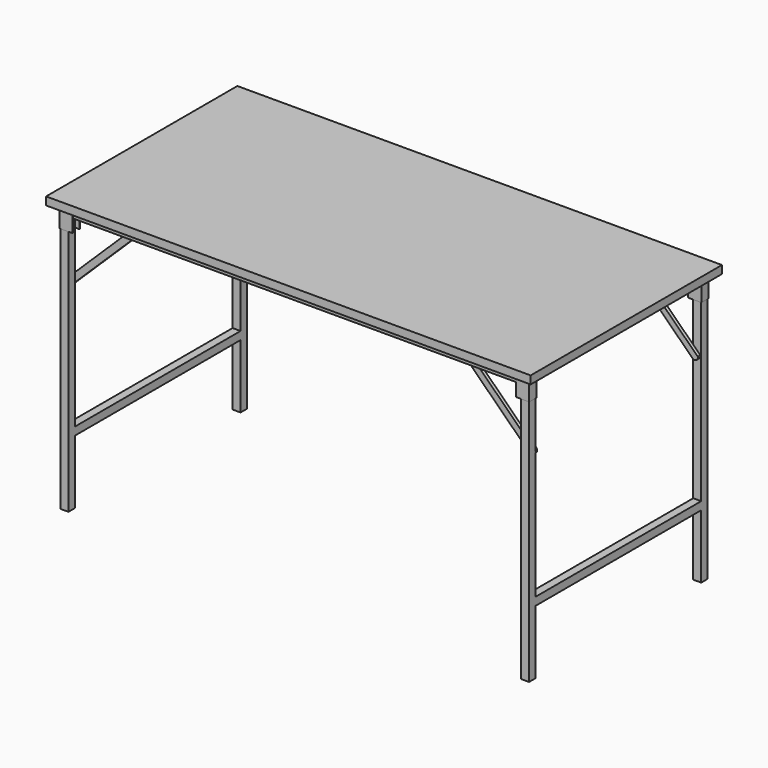
from build123d import *

# Parameters (mm, degrees)
F0_W      = 1520
F0_H      = 750
F1_DEPTH  = 25
F2_W      = 1470
F2_H      = 25
F3_DEPTH  = 25
F5_DEPTH  = 65
F7_W      = 25
F7_H      = 25
F8_DEPTH  = 805
F10_DEPTH = 65
F12_W     = 25
F12_H     = 25
F13_DEPTH = 805
F15_W     = 25
F15_H     = 25
F16_DEPTH = 805
F18_W     = 25
F18_H     = 25
F19_DEPTH = 650
F21_W     = 25
F21_H     = 25
F22_DEPTH = 650
F24_DEPTH = 10
F26_DEPTH = 10
F29_DEPTH = 10
F31_DEPTH = 10


with BuildPart() as f1:
    # F0 (on Top) → F1 (new body)
    with BuildSketch(Plane.XY):
        with Locations((-760, 375)):
            Rectangle(F0_W, F0_H)
    extrude(amount=F1_DEPTH)

    # F2 (on face) → F3 (join)
    with BuildSketch(Plane(origin=(0, 0, 0), x_dir=(1, 0, 0), z_dir=(0, 0, -1))):
        with Locations((-760, -37.5)):
            Rectangle(F2_W, F2_H)
        with Locations((-760, -712.5)):
            Rectangle(F2_W, F2_H)
    extrude(amount=F3_DEPTH)

    # F4 (on face) → F5 (join)
    with BuildSketch(Plane(origin=(0, 0, 0), x_dir=(1, 0, 0), z_dir=(0, 0, -1))):
        Polygon((-65, -25), (-25, -25), (-25, -50), (-65, -50), (-65, -52), (-23, -52), (-23, -23), (-65, -23), align=None)
    extrude(amount=F5_DEPTH)

    # F7 (on offset) → F8 (join)
    with BuildSketch(Plane(origin=(0, 0, -35), x_dir=(1, 0, 0), z_dir=(0, 0, -1))):
        with Locations((-37.5, -37.523640207)):
            Rectangle(F7_W, F7_H)
    extrude(amount=F8_DEPTH)

    # F9 (on face) → F10 (join)
    with BuildSketch(Plane.XY):
        Polygon((-1495, 724.9829173088), (-1455, 724.9829173088), (-1455, 726.9829173088), (-1497, 726.9829173088), (-1497, 697.9829173088), (-1455, 697.9829173088), (-1455, 699.9829173088), (-1495, 699.9829173088), align=None)
        Polygon((-65.0490959734, 726.9829173088), (-65.0490959734, 724.9829173088), (-25.0490959734, 724.9829173088), (-25.0490959734, 699.9829173088), (-65.0490959734, 699.9829173088), (-65.0490959734, 697.9829173088), (-23.0490959734, 697.9829173088), (-23.0490959734, 726.9829173088), align=None)
        Polygon((-1455, 25), (-1495, 25), (-1495, 50), (-1455, 50), (-1455, 52), (-1497, 52), (-1497, 23), (-1455, 23), align=None)
    extrude(amount=-F10_DEPTH)

    # F12 (on offset) → F13 (join)
    with BuildSketch(Plane(origin=(0, 0, -35), x_dir=(1, 0, 0), z_dir=(0, 0, -1))):
        with Locations((-1482.5, -37.5)):
            Rectangle(F12_W, F12_H)
    extrude(amount=F13_DEPTH)

    # F15 (on offset) → F16 (join)
    with BuildSketch(Plane(origin=(0, 0, -35), x_dir=(1, 0, 0), z_dir=(0, 0, -1))):
        with Locations((-37.5, -712.5)):
            Rectangle(F15_W, F15_H)
        with Locations((-1482.5, -712.5)):
            Rectangle(F15_W, F15_H)
    extrude(amount=F16_DEPTH)

    # F18 (on offset) → F19 (join)
    with BuildSketch(Plane(origin=(0, 50.023640207, 0), x_dir=(-1, 0, 0), z_dir=(0, 1, 0))):
        with Locations((37.5, -627.5)):
            Rectangle(F18_W, F18_H)
    extrude(amount=F19_DEPTH)

    # F21 (on offset) → F22 (join)
    with BuildSketch(Plane(origin=(0, 50, 0), x_dir=(-1, 0, 0), z_dir=(0, 1, 0))):
        with Locations((1482.5, -627.5)):
            Rectangle(F21_W, F21_H)
    extrude(amount=F22_DEPTH)

    # F23 (on face) → F24 (join)
    with BuildSketch(Plane.XZ.offset(-700)):
        with BuildLine():
            Line((-50, -190.7444713597), (-234.6244849475, -9.2794851613))
            ThreePointArc((-234.6244849475, -9.2794851613), (-246.6039118675, -7.7336055545), (-251.332803081, -18.8481906111))
            Line((-251.332803081, -18.8481906111), (-50, -216.7355636904))
            Line((-50, -216.7355636904), (-50, -190.7444713597))
        make_face()
        with BuildLine():
            Line((-27.8014624786, -212.5631229112), (-50, -190.7444713597))
            Line((-50, -190.7444713597), (-50, -216.7355636904))
            Line((-50, -216.7355636904), (-44.5097806121, -222.131828361))
            ThreePointArc((-44.5097806121, -222.131828361), (-32.5303536921, -223.6777079678), (-27.8014624786, -212.5631229112))
        make_face()
    extrude(amount=F24_DEPTH)

    # F25 (on face) → F26 (join)
    with BuildSketch(Plane(origin=(0, 50.023640207, 0), x_dir=(-1, 0, 0), z_dir=(0, 1, 0))):
        with BuildLine():
            Line((50, -188.6229664357), (50, -216.7160920101))
            Line((50, -216.7160920101), (250.9788283543, -18.4630064225))
            ThreePointArc((250.9788283543, -18.4630064225), (251.07538107, -4.3212004002), (236.9335750477, -4.2246476845))
            Line((236.9335750477, -4.2246476845), (50, -188.6229664357))
        make_face()
        with BuildLine():
            ThreePointArc((30.4773733467, -207.880820631), (30.380820631, -222.0226266533), (44.5226266533, -222.119179369))
            Line((44.5226266533, -222.119179369), (50, -216.7160920101))
            Line((50, -216.7160920101), (50, -188.6229664357))
            Line((50, -188.6229664357), (30.4773733467, -207.880820631))
        make_face()
    extrude(amount=F26_DEPTH)

    # F28 (on offset) → F29 (join)
    with BuildSketch(Plane.XZ.offset(-700)):
        with BuildLine():
            ThreePointArc((-1268.519621658, -19.0091897955), (-1268.3869301053, -4.8676766886), (-1282.5284432121, -4.7349851358))
            Line((-1282.5284432121, -4.7349851358), (-1489.504410777, -207.8628976702))
            ThreePointArc((-1489.504410777, -207.8628976702), (-1489.6371023298, -222.004410777), (-1475.495589223, -222.1371023298))
            Line((-1475.495589223, -222.1371023298), (-1268.519621658, -19.0091897955))
        make_face()
    extrude(amount=F29_DEPTH)

    # F30 (on face) → F31 (join)
    with BuildSketch(Plane(origin=(0, 50, 0), x_dir=(-1, 0, 0), z_dir=(0, 1, 0))):
        with BuildLine():
            ThreePointArc((1475.506314972, -222.1476128693), (1489.6476128693, -221.993685028), (1489.493685028, -207.8523871307))
            Line((1489.493685028, -207.8523871307), (1470, -188.7785095141))
            Line((1470, -188.7785095141), (1470, -216.7598794703))
            Line((1470, -216.7598794703), (1475.506314972, -222.1476128693))
        make_face()
        with BuildLine():
            Line((1470, -216.7598794703), (1470, -188.7785095141))
            Line((1470, -188.7785095141), (1282.212911818, -5.0355213195))
            ThreePointArc((1282.212911818, -5.0355213195), (1268.0716139207, -5.1894491609), (1268.225541762, -19.3307470582))
            Line((1268.225541762, -19.3307470582), (1470, -216.7598794703))
        make_face()
    extrude(amount=F31_DEPTH)


solid = f1.part
